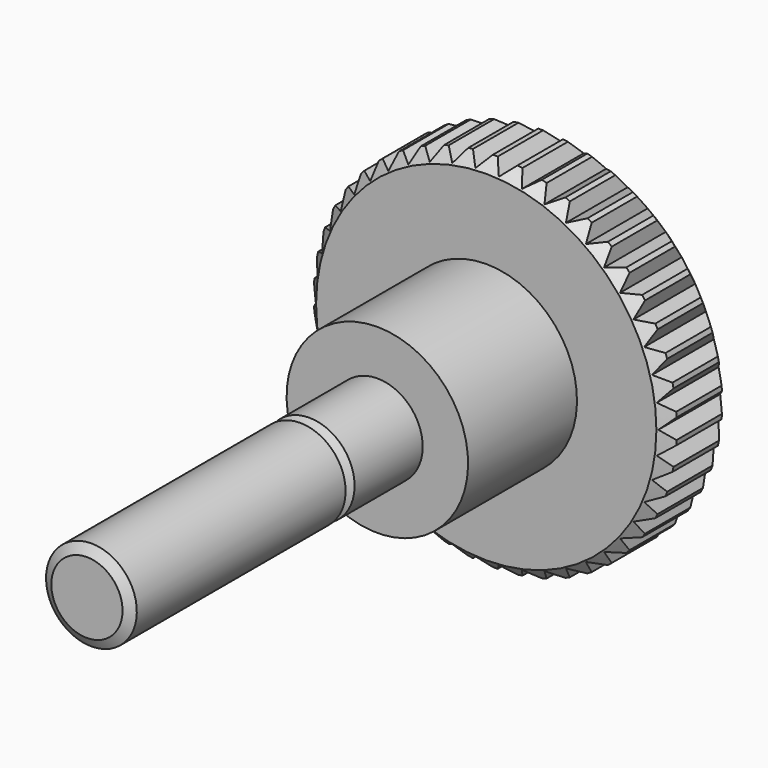
from build123d import *

# Parameters (mm, degrees)
POCKET_DEPTH       = 93.684576
POLARPATTERN_COUNT = 46


with BuildPart() as part:
    # Sketch → Revolution (revolve)
    with BuildSketch(Plane.YZ):
        Polygon((0, 0), (0, 1.57), (0.248261, 2), (11.751739, 2), (12, 1.57), (12.248261, 2), (16, 2), (16, 4), (22, 4), (22, 7.5), (22.5, 8), (25, 8), (25.5, 7.5), (25.5, 0), align=None)
    revolve(axis=Axis((0, 0, 0), (0, 1, 0)))

    # Sketch001 → Pocket (cut, through all)
    with BuildSketch(Plane.ZX.offset(25.5)):
        Polygon((-0.5, 8.05), (0, 7.55), (0.5, 8.05), align=None)
    pocket = extrude(amount=-POCKET_DEPTH, mode=Mode.SUBTRACT)

    # PolarPattern: Pocket ×46 about axis
    polarpattern_axis = Axis((0, 25.5, 0), (0, 1, 0))
    for i in range(1, POLARPATTERN_COUNT):
        add(pocket.rotate(polarpattern_axis, i * 360 / POLARPATTERN_COUNT), mode=Mode.SUBTRACT)


solid = part.part
